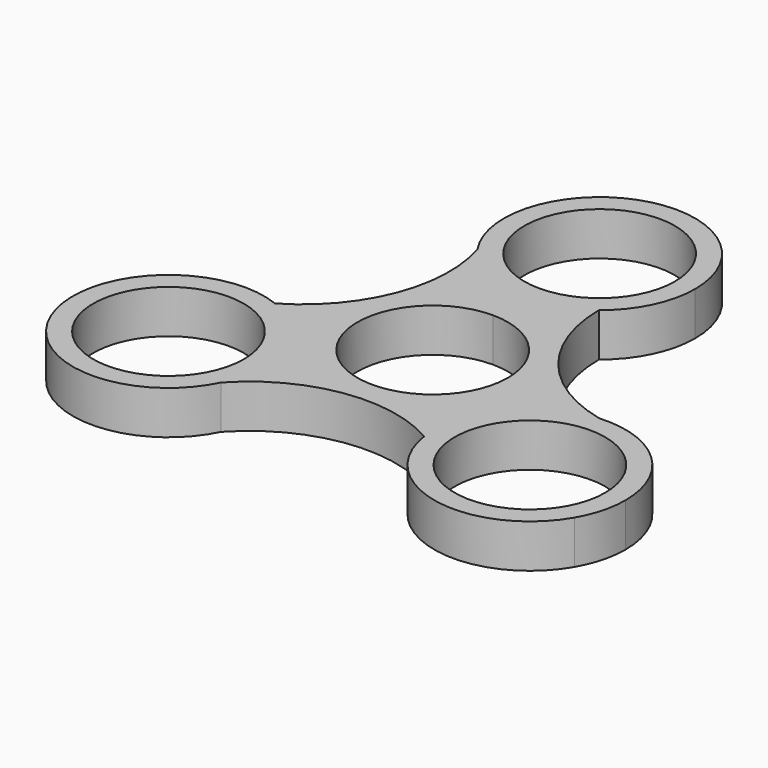
from build123d import *

# Parameters (mm, degrees)
F0_R     = 10.9982
F1_DEPTH = 6.35


with BuildPart() as f1:
    # F0 (on Top) → F1 (new body)
    with BuildSketch(Plane.XY):
        with BuildLine():
            ThreePointArc((13.97, 30.48), (9.878282, 40.358282), (0, 44.45))
            ThreePointArc((0, 44.45), (-12.337364, 37.033652), (-11.575489, 22.658942))
            ThreePointArc((-11.575489, 22.658942), (-6.553652, 18.142636), (0, 16.51))
            ThreePointArc((0, 16.51), (4.583465, 17.283306), (8.659498, 19.51761))
            ThreePointArc((8.659498, 19.51761), (12.572472, 24.389527), (13.97, 30.48))
        make_face()
        with BuildLine():
            ThreePointArc((10.9982, 30.48), (7.776902, 22.703098), (0, 19.4818))
            ThreePointArc((0, 19.4818), (-7.776902, 38.256902), (10.9982, 30.48))
        make_face(mode=Mode.SUBTRACT)
        with BuildLine():
            ThreePointArc((-21.232495, -2.25946), (-36.964199, -6.10306), (-38.494829, -22.225))
            ThreePointArc((-38.494829, -22.225), (-25.903402, -29.201296), (-13.835475, -21.354139))
            ThreePointArc((-13.835475, -21.354139), (-12.783266, -18.377197), (-12.426454, -15.24))
            ThreePointArc((-12.426454, -15.24), (-14.835714, -7.397157), (-21.232495, -2.25946))
        make_face()
        with Locations((-26.396454, -15.24)):
            Circle(F0_R, mode=Mode.SUBTRACT)
        with BuildLine():
            ThreePointArc((12.572997, -17.25815), (23.767504, -28.960405), (38.494829, -22.225))
            ThreePointArc((38.494829, -22.225), (39.890438, -18.855702), (40.366454, -15.24))
            ThreePointArc((40.366454, -15.24), (35.919941, -5.019232), (25.410964, -1.304803))
            ThreePointArc((25.410964, -1.304803), (15.512818, -6.481727), (12.572997, -17.25815))
        make_face()
        with Locations((26.396454, -15.24)):
            Circle(F0_R, mode=Mode.SUBTRACT)
        with BuildLine():
            ThreePointArc((0, 16.51), (-6.553652, 18.142636), (-11.575489, 22.658942))
            ThreePointArc((-11.575489, 22.658942), (-12.048948, 8.511965), (-21.232495, -2.25946))
            ThreePointArc((-21.232495, -2.25946), (-14.835714, -7.397157), (-12.426454, -15.24))
            ThreePointArc((-12.426454, -15.24), (-12.783266, -18.377197), (-13.835475, -21.354139))
            ThreePointArc((-13.835475, -21.354139), (-1.347104, -14.690677), (12.572997, -17.25815))
            ThreePointArc((12.572997, -17.25815), (15.512818, -6.481727), (25.410964, -1.304803))
            ThreePointArc((25.410964, -1.304803), (13.396052, 6.178713), (8.659498, 19.51761))
            ThreePointArc((8.659498, 19.51761), (4.583465, 17.283306), (0, 16.51))
        make_face()
        with BuildLine():
            ThreePointArc((13.97, 0), (-9.878282, -9.878282), (0, 13.97))
            ThreePointArc((0, 13.97), (9.878282, 9.878282), (13.97, 0))
        make_face(mode=Mode.SUBTRACT)
        with BuildLine():
            ThreePointArc((13.97, 0), (9.878282, 9.878282), (0, 13.97))
            ThreePointArc((0, 13.97), (-9.878282, -9.878282), (13.97, 0))
        make_face()
        with BuildLine():
            ThreePointArc((10.9982, 0), (-7.776902, -7.776902), (0, 10.9982))
            ThreePointArc((0, 10.9982), (7.776902, 7.776902), (10.9982, 0))
        make_face(mode=Mode.SUBTRACT)
    extrude(amount=F1_DEPTH)


solid = f1.part
